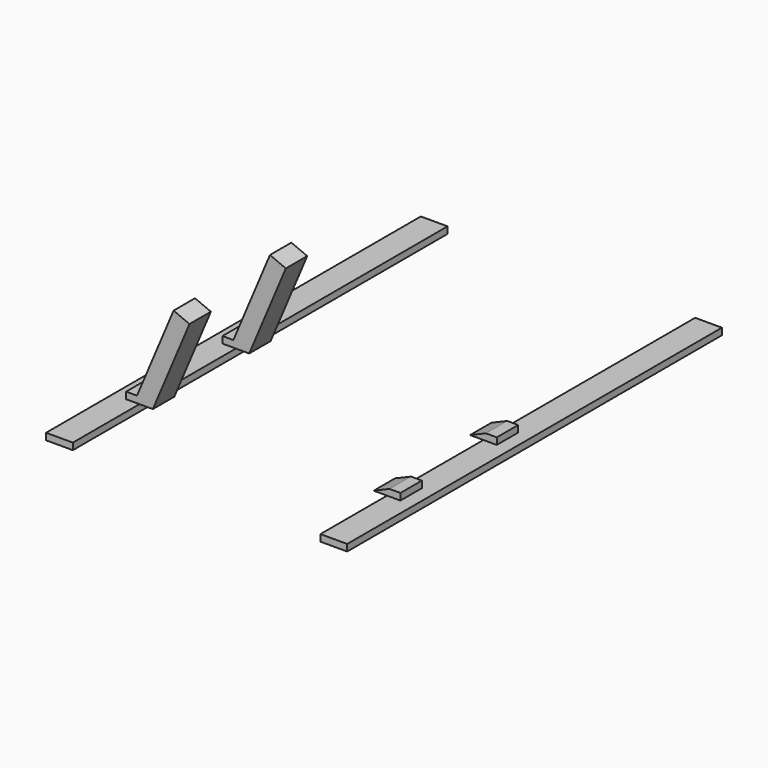
from build123d import *

# Parameters (mm, degrees)
F0_W     = 3.175
F0_H     = 55.5625
F1_DEPTH = 0.79375
F2_W     = 1.5875
F2_H     = 3.175
F3_DEPTH = 0.79375
F2_W_2   = 3.175
F5_DEPTH = 25.4
F7_DEPTH = 25.4
F8_DEPTH = 11.176


with BuildPart() as f1:
    # F0 (on Top) → F1 (new body)
    with BuildSketch(Plane.XY):
        with Locations((-16.6671186362, 55.8928695858)):
            Rectangle(F0_W, F0_H)
    extrude(amount=F1_DEPTH)

    # F2 (on face) → F3, piece 2 (join)
    with BuildSketch(Plane.XY.offset(0.79375)):
        with Locations((-18.2546186362, 53.8643973635)):
            Rectangle(F2_W_2, F2_H)
        with Locations((-18.2546186362, 39.5768973635)):
            Rectangle(F2_W_2, F2_H)
    extrude(amount=F3_DEPTH)

    # F6 (on face) → F7 (cut)
    with BuildSketch(Plane.XZ.offset(-37.9893973635)):
        Polygon((-19.8421186362, 1.5875), (-19.8421186362, 0.79375), (-17.9605293072, 1.5875), align=None)
    extrude(amount=-F7_DEPTH, mode=Mode.SUBTRACT)


with BuildPart() as f1b:
    # F0 (on Top) → F1, piece 2 (new body)
    with BuildSketch(Plane.XY):
        with Locations((-49.2108686362, 55.8928695858)):
            Rectangle(F0_W, F0_H)
    extrude(amount=F1_DEPTH)

    # F2 (on face) → F3 (join)
    with BuildSketch(Plane.XY.offset(0.79375)):
        with Locations((-48.4171186362, 53.8643973635)):
            Rectangle(F2_W, F2_H)
        with Locations((-46.8296186362, 53.8643973635)):
            Rectangle(F2_W, F2_H)
        with Locations((-48.4171186362, 39.5768973635)):
            Rectangle(F2_W, F2_H)
        with Locations((-46.8296186362, 39.5768973635)):
            Rectangle(F2_W, F2_H)
    extrude(amount=F3_DEPTH)

    # F4 (on face) → F5 (cut)
    with BuildSketch(Plane.XZ.offset(-37.9893973635)):
        Polygon((-47.9174579653, 1.5875), (-46.0358686362, 0.79375), (-46.0358686362, 1.5875), align=None)
    extrude(amount=-F5_DEPTH, mode=Mode.SUBTRACT)

    # F8 (add): faces of the model
    f8_faces = [f1b.faces().sort_by_distance(p)[0] for p in [
        (-46.9766633008, 53.8643973635, 1.190625),
        (-46.9766633008, 39.5768973635, 1.190625),
    ]]
    extrude(f8_faces, amount=F8_DEPTH)


solid = Compound([f1.part, f1b.part])
